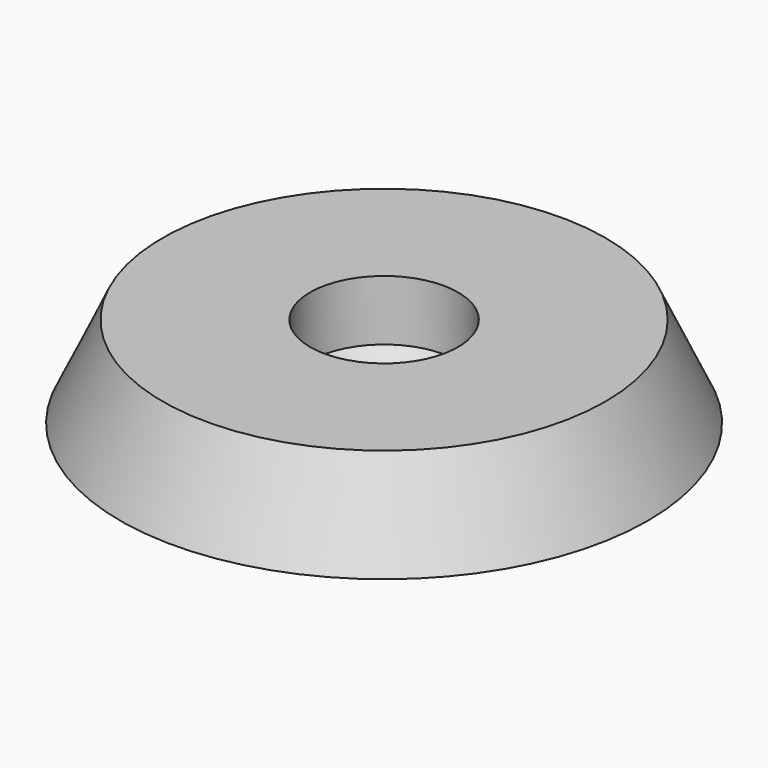
from build123d import *

# Parameters (mm, degrees)
F0_R     = 29.4383765416
F1_DEPTH = 10.16
F1_TAPER = 25
F3_D     = 16.51
F3_DEPTH = 6.731
F3_TIP   = 4.9601044101


with BuildPart() as f1:
    # F0 (on Top) → F1 (new body)
    with BuildSketch(Plane.XY):
        Circle(F0_R)
    extrude(amount=F1_DEPTH, taper=F1_TAPER)

    # F3
    with Locations(Plane.XY.offset(10.16)):
        with Locations((0, 0)):
            Hole(F3_D / 2, depth=F3_DEPTH)
            with Locations((0, 0, -(F3_DEPTH + F3_TIP / 2))):  # 118° drill point
                Cone(0, F3_D / 2, F3_TIP, mode=Mode.SUBTRACT)


solid = f1.part
